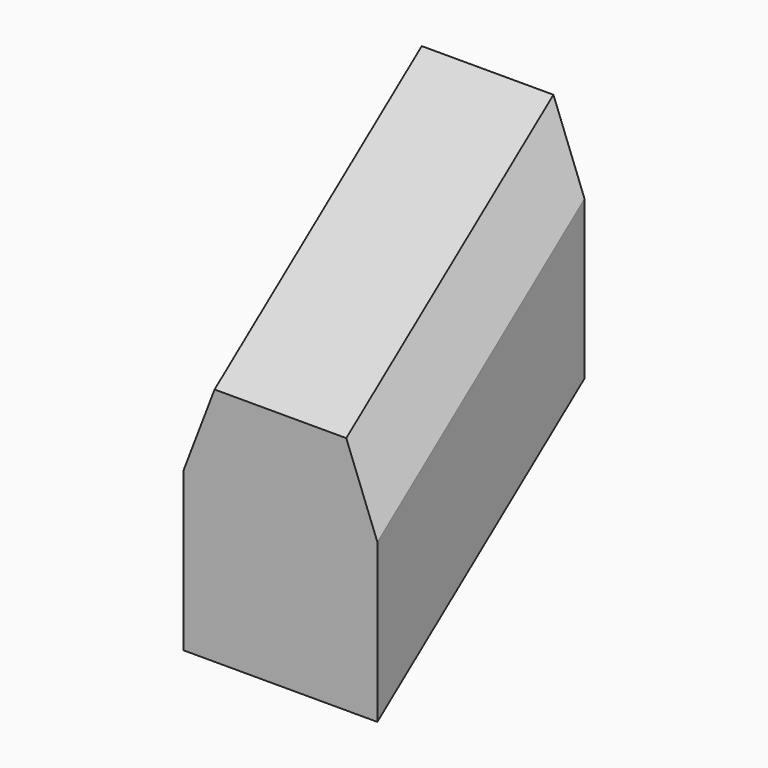
from build123d import *


with BuildPart() as f2:
    # F2: sweep along a path in F1
    with BuildLine(Plane.YZ) as f2_path:
        Line((0, 0), (42.337261, 32.216601))
    # F0 (on Front) → F2 (sweep)
    with BuildSketch(Plane.XZ):
        Polygon((-15.846774, 0), (0, 0), (15.846774, 0), (15.846774, 25.887098), (10.766129, 39.193552), (3.750001, 39.193552), (-3.750001, 39.193552), (-10.766129, 39.193552), (-15.846774, 25.887098), align=None)
    sweep(path=f2_path.line)


solid = f2.part
